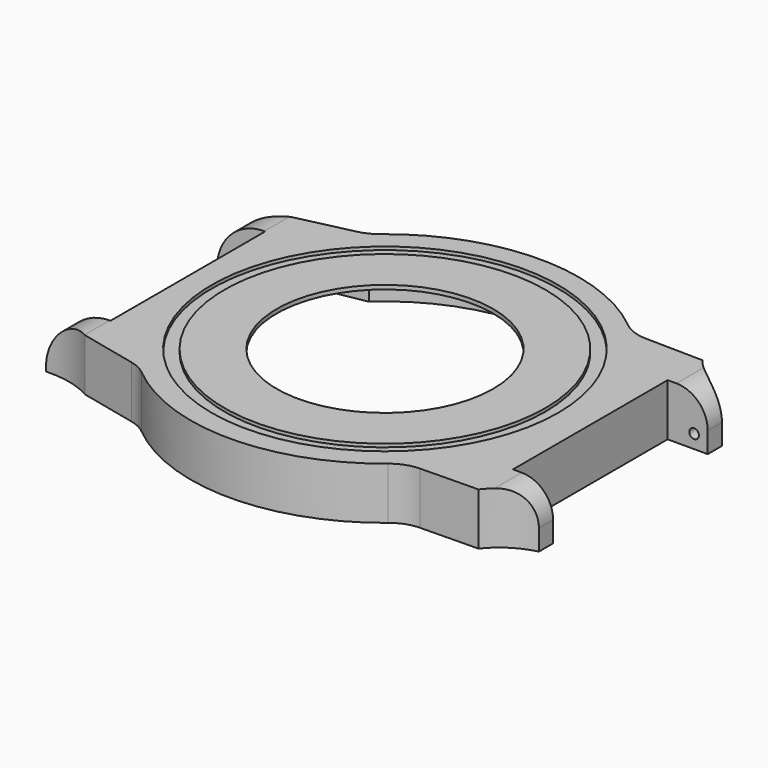
from build123d import *

# Parameters (mm, degrees)
PAD_DEPTH       = 6.5
POCKET_DEPTH    = 6
SKETCH002_R     = 13.5
POCKET001_DEPTH = 1
SKETCH003_W     = 5.4
SKETCH003_H     = 6.5
PAD001_DEPTH    = 5
POCKET002_DEPTH = 10
SKETCH008_R     = 0.6
POCKET003_DEPTH = 2
SKETCH009_R     = 0.6
POCKET004_DEPTH = 2
FILLET_R        = 3.9
FILLET001_R     = 3.9
FILLET002_R     = 5
FILLET003_R     = 5
FILLET004_R     = 5
FILLET005_R     = 5
SKETCH010_W     = 3.95
SKETCH010_H     = 6.5
PAD002_DEPTH    = 6
POCKET005_DEPTH = 10
SKETCH012_R     = 0.6
POCKET006_DEPTH = 2
SKETCH013_R     = 0.6
POCKET007_DEPTH = 2
FILLET006_R     = 5.9
FILLET007_R     = 5.9
SKETCH014_R     = 21.6
SKETCH014_R_2   = 20
POCKET008_DEPTH = 0.4


with BuildPart() as part:
    # Sketch → Pad (new body)
    with BuildSketch(Plane.XY):
        with BuildLine():
            Line((-24.57081, 16), (-24.57081, -16))
            Line((-24.57081, -16), (-16.285883, -17.9))
            ThreePointArc((-16.285883, -17.9), (0.22069, -24.198994), (16.609636, -17.6))
            Line((16.609636, -17.6), (25.608386, -17.45))
            Line((25.608386, 17.45), (25.608386, -17.45))
            Line((16.609636, 17.6), (25.608386, 17.45))
            ThreePointArc((16.609636, 17.6), (0.22069, 24.198994), (-16.285883, 17.9))
            Line((-24.57081, 16), (-16.285883, 17.9))
        make_face()
    extrude(amount=PAD_DEPTH)

    # Sketch001 → Pocket (cut)
    with BuildSketch(Plane.XY):
        with BuildLine():
            Line((-15.242949, 16.55), (-22.620449, 15.2))
            Line((-22.620449, 15.2), (-22.620449, -15.2))
            Line((-22.620449, -15.2), (-15.242949, -16.55))
            ThreePointArc((-15.242949, -16.55), (0, -22.5), (15.242949, -16.55))
            Line((15.242949, -16.55), (23.527875, -16.05))
            Line((23.527875, 16.05), (23.527875, -16.05))
            Line((15.242949, 16.55), (23.527875, 16.05))
            ThreePointArc((15.242949, 16.55), (0, 22.5), (-15.242949, 16.55))
        make_face()
    extrude(amount=POCKET_DEPTH, mode=Mode.SUBTRACT)

    # Sketch002 (on Face19 of Pocket) → Pocket001 (cut)
    with BuildSketch(Plane(origin=(0, 0, 6), x_dir=(1, 0, 0), z_dir=(0, 0, -1))):
        Circle(SKETCH002_R)
    extrude(amount=-POCKET001_DEPTH, mode=Mode.SUBTRACT)

    # Sketch003 (on Face6 of Pocket001) → Pad001 (join)
    with BuildSketch(Plane.YZ.offset(25.608386)):
        with Locations((-14.75, 3.25)):
            Rectangle(SKETCH003_W, SKETCH003_H)
        with Locations((14.75, 3.25)):
            Rectangle(SKETCH003_W, SKETCH003_H)
    extrude(amount=PAD001_DEPTH)

    # Sketch006 → Pocket002 (cut)
    with BuildSketch(Plane.XY.offset(10)):
        with BuildLine():
            ThreePointArc((25.608386, 17.45), (27.842824, 15.439634), (30.608386, 14.262368))
            Line((30.608386, 17.45), (30.608386, 14.262368))
            Line((30.608386, 17.45), (25.608386, 17.45))
        make_face()
        with BuildLine():
            ThreePointArc((30.608386, -14.262368), (27.842824, -15.439634), (25.608386, -17.45))
            Line((30.608386, -17.45), (25.608386, -17.45))
            Line((30.608386, -14.262368), (30.608386, -17.45))
        make_face()
    extrude(amount=-POCKET002_DEPTH, mode=Mode.SUBTRACT)

    # Sketch008 (on Face27 of Pocket002) → Pocket003 (cut)
    with BuildSketch(Plane(origin=(0, -12.05, 0), x_dir=(-1, 0, 0), z_dir=(0, 1, 0))):
        with Locations((-28.908386, 1.7)):
            Circle(SKETCH008_R)
    extrude(amount=-POCKET003_DEPTH, mode=Mode.SUBTRACT)

    # Sketch009 (on Face26 of Pocket003) → Pocket004 (cut)
    with BuildSketch(Plane.XZ.offset(-12.05)):
        with Locations((28.908386, 1.7)):
            Circle(SKETCH009_R)
    extrude(amount=-POCKET004_DEPTH, mode=Mode.SUBTRACT)

    # Fillet
    fillet_edges = [part.edges().sort_by_distance(p)[0] for p in [
        (30.608386, -13.156184, 6.5),
    ]]
    fillet(fillet_edges, radius=FILLET_R)

    # Fillet001
    fillet001_edges = [part.edges().sort_by_distance(p)[0] for p in [
        (30.608386, 13.156184, 6.5),
    ]]
    fillet(fillet001_edges, radius=FILLET001_R)

    # Fillet002
    fillet002_edges = [part.edges().sort_by_distance(p)[0] for p in [
        (16.609636, -17.6, 3.25),
    ]]
    fillet(fillet002_edges, radius=FILLET002_R)

    # Fillet003
    fillet003_edges = [part.edges().sort_by_distance(p)[0] for p in [
        (16.609636, 17.6, 3.25),
    ]]
    fillet(fillet003_edges, radius=FILLET003_R)

    # Fillet004
    fillet004_edges = [part.edges().sort_by_distance(p)[0] for p in [
        (-16.285883, -17.9, 3.25),
    ]]
    fillet(fillet004_edges, radius=FILLET004_R)

    # Fillet005
    fillet005_edges = [part.edges().sort_by_distance(p)[0] for p in [
        (-16.285883, 17.9, 3.25),
    ]]
    fillet(fillet005_edges, radius=FILLET005_R)

    # Sketch010 (on Face4 of Fillet005) → Pad002 (join)
    with BuildSketch(Plane(origin=(-24.57081, 0, 0), x_dir=(0, -1, 0), z_dir=(-1, 0, 0))):
        with Locations((-14.025, 3.25)):
            Rectangle(SKETCH010_W, SKETCH010_H)
        with Locations((14.025, 3.25)):
            Rectangle(SKETCH010_W, SKETCH010_H)
    extrude(amount=PAD002_DEPTH)

    # Sketch011 (on Face6 of Pad002) → Pocket005 (cut)
    with BuildSketch(Plane.XY.offset(6.5)):
        with BuildLine():
            ThreePointArc((-30.57081, 14.6), (-27.470381, 14.869592), (-24.57081, 16))
            Line((-24.57081, 16), (-30.57081, 16))
            Line((-30.57081, 16), (-30.57081, 14.6))
        make_face()
        with BuildLine():
            ThreePointArc((-24.57081, -16), (-27.470381, -14.869592), (-30.57081, -14.6))
            Line((-30.57081, -14.6), (-30.57081, -16))
            Line((-30.57081, -16), (-24.57081, -16))
        make_face()
    extrude(amount=-POCKET005_DEPTH, mode=Mode.SUBTRACT)

    # Sketch012 (on Face23 of Pocket005) → Pocket006 (cut)
    with BuildSketch(Plane(origin=(0, -12.05, 0), x_dir=(-1, 0, 0), z_dir=(0, 1, 0))):
        with Locations((28.87081, 1.7)):
            Circle(SKETCH012_R)
    extrude(amount=-POCKET006_DEPTH, mode=Mode.SUBTRACT)

    # Sketch013 (on Face21 of Pocket006) → Pocket007 (cut)
    with BuildSketch(Plane.XZ.offset(-12.05)):
        with Locations((-28.87081, 1.7)):
            Circle(SKETCH013_R)
    extrude(amount=-POCKET007_DEPTH, mode=Mode.SUBTRACT)

    # Fillet006
    fillet006_edges = [part.edges().sort_by_distance(p)[0] for p in [
        (-30.57081, 13.325, 6.5),
    ]]
    fillet(fillet006_edges, radius=FILLET006_R)

    # Fillet007
    fillet007_edges = [part.edges().sort_by_distance(p)[0] for p in [
        (-30.57081, -13.325, 6.5),
    ]]
    fillet(fillet007_edges, radius=FILLET007_R)

    # Sketch014 (on Face4 of Fillet007) → Pocket008 (cut)
    with BuildSketch(Plane.XY.offset(6.5)):
        Circle(SKETCH014_R)
        Circle(SKETCH014_R_2, mode=Mode.SUBTRACT)
    extrude(amount=-POCKET008_DEPTH, mode=Mode.SUBTRACT)


solid = part.part
